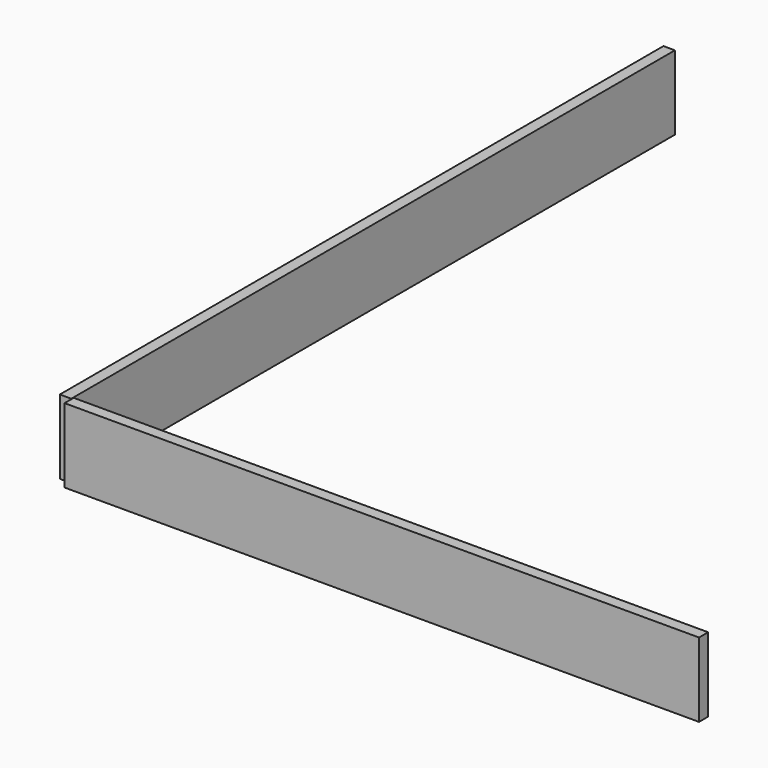
from build123d import *

# Parameters (mm, degrees)
F0_W     = 1676.4
F0_H     = 165.1
F1_DEPTH = 25.4
F2_W     = 1409.7
F2_H     = 165.1
F3_DEPTH = 25.4


with BuildPart() as f1:
    # F0 (on Right) → F1 (new body)
    with BuildSketch(Plane.YZ):
        with Locations((840.809022, 86.724435)):
            Rectangle(F0_W, F0_H)
    extrude(amount=F1_DEPTH)


with BuildPart() as f3:
    # F2 (on Front) → F3 (new body)
    with BuildSketch(Plane.XZ):
        with Locations((737.74105, 91.874318)):
            Rectangle(F2_W, F2_H)
    extrude(amount=F3_DEPTH)


solid = Compound([f1.part, f3.part])
